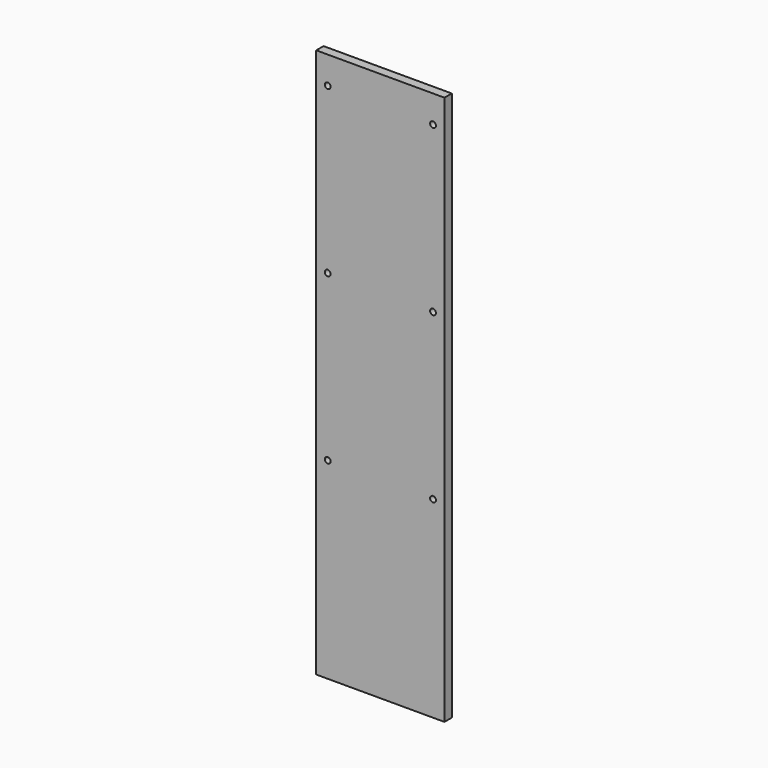
from build123d import *

# Parameters (mm, degrees)
F0_W     = 88.9
F0_H     = 381
F1_DEPTH = 6.35
F3_D     = 4.0386


with BuildPart() as f1:
    # F0 (on Front) → F1 (new body)
    with BuildSketch(Plane.XZ):
        Rectangle(F0_W, F0_H)
    extrude(amount=F1_DEPTH)

    # F3 (through all)
    with Locations(Plane.XZ.offset(6.35)):
        with Locations((-36.5125, 171.45), (36.5125, 171.45), (36.5125, 57.15), (-36.5125, 57.15), (-36.5125, -57.15), (36.5125, -57.15)):
            Hole(F3_D / 2)


solid = f1.part
